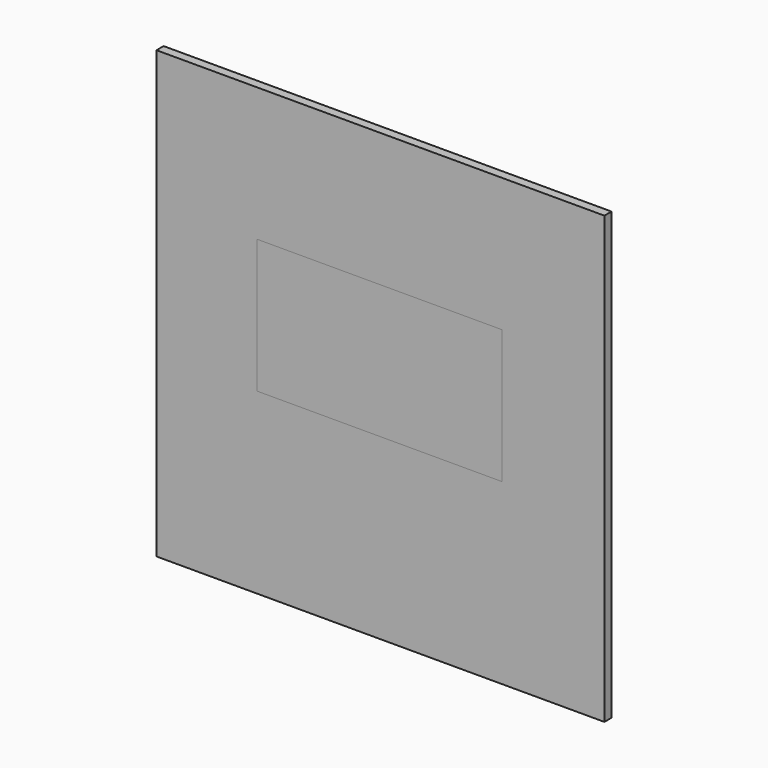
from build123d import *

# Parameters (mm, degrees)
F0_W     = 201
F0_H     = 200
F1_DEPTH = 4
F2_W     = 110
F2_H     = 60
F3_DEPTH = 25
F4_W     = 110
F4_H     = 60
F5_DEPTH = 2


with BuildPart() as f1:
    # F0 (on Front) → F1 (new body)
    with BuildSketch(Plane.XZ):
        with Locations((25, -50)):
            Rectangle(F0_W, F0_H)
    extrude(amount=F1_DEPTH)

    # F2 (on face) → F3 (cut)
    with BuildSketch(Plane.XZ.offset(4)):
        with Locations((24.5, -40)):
            Rectangle(F2_W, F2_H)
    extrude(amount=-F3_DEPTH, mode=Mode.SUBTRACT)


with BuildPart() as f5:
    # F4 (on face) → F5 (new body)
    with BuildSketch(Plane.XZ.offset(4)):
        with Locations((24.5, -40)):
            Rectangle(F4_W, F4_H)
    extrude(amount=-F5_DEPTH)


solid = Compound([f1.part, f5.part])
